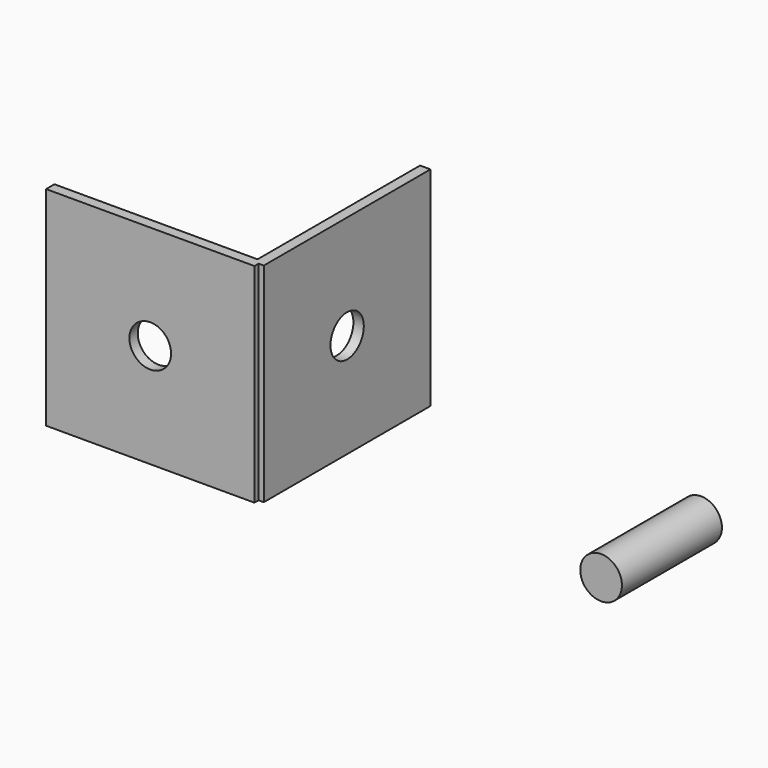
from build123d import *

# Parameters (mm, degrees)
F0_W     = 500
F0_H     = 500
F0_R     = 50
F1_DEPTH = 12.5
F2_W     = 500
F2_H     = 500
F2_R     = 50
F3_DEPTH = 12.5
F4_R     = 50
F5_DEPTH = 300


with BuildPart() as f1:
    # F0 (on Front) → F1 (new body, symmetric)
    with BuildSketch(Plane.XZ):
        with Locations((-250, 250)):
            Rectangle(F0_W, F0_H)
        with Locations((-250, 250)):
            Circle(F0_R, mode=Mode.SUBTRACT)
    extrude(amount=F1_DEPTH, both=True)

    # F2 (on Right) → F3 (join, symmetric)
    with BuildSketch(Plane.YZ):
        with Locations((250, 250)):
            Rectangle(F2_W, F2_H)
        with Locations((250, 250)):
            Circle(F2_R, mode=Mode.SUBTRACT)
    extrude(amount=F3_DEPTH, both=True)


with BuildPart() as f5:
    # F4 (on Front) → F5 (new body)
    with BuildSketch(Plane.XZ):
        with Locations((1061.923623, 303.900898)):
            Circle(F4_R)
    extrude(amount=F5_DEPTH)


solid = Compound([f1.part, f5.part])
